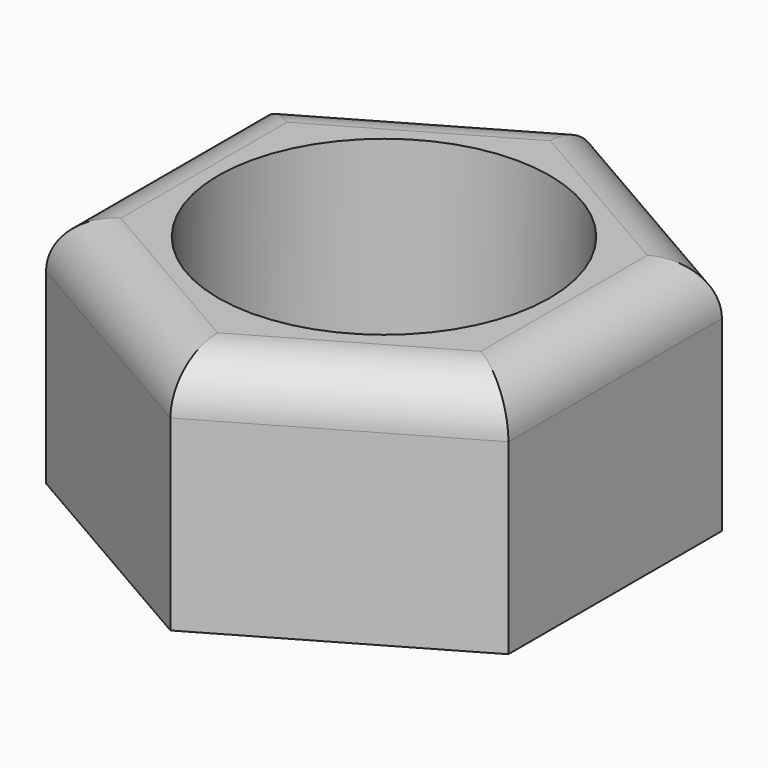
from build123d import *

# Parameters (mm, degrees)
F0_R     = 4.874108
F1_DEPTH = 7
F2_R     = 1.5


with BuildPart() as f1:
    # F0 (on Top) → F1 (new body)
    with BuildSketch(Plane.XY):
        Polygon((6.795984, 3.923663), (0, 7.847326), (-6.795984, 3.923663), (-6.795984, -3.923663), (0, -7.847326), (6.795984, -3.923663), align=None)
        Circle(F0_R, mode=Mode.SUBTRACT)
    extrude(amount=F1_DEPTH)

    # F2
    f2_edges = [f1.edges().sort_by_distance(p)[0] for p in [
        (6.795984, 0, 7),
        (3.397992, -5.885494, 7),
        (-3.397992, -5.885494, 7),
        (3.397992, 5.885494, 7),
        (-6.795984, 0, 7),
        (-3.397992, 5.885494, 7),
    ]]
    fillet(f2_edges, radius=F2_R)


solid = f1.part
